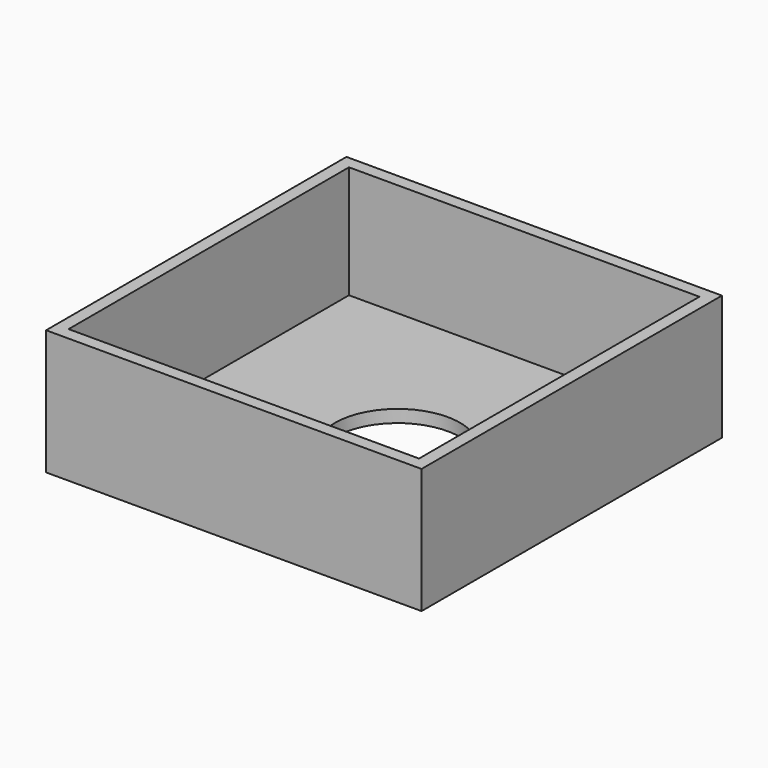
from build123d import *

# Parameters (mm, degrees)
F0_W     = 76.2
F0_H     = 76.2
F1_DEPTH = 25.4
F2_T     = -2.54
F4_D     = 25.4


with BuildPart() as f1:
    # F0 (on Top) → F1 (new body)
    with BuildSketch(Plane.XY):
        Rectangle(F0_W, F0_H)
    extrude(amount=F1_DEPTH)

    # F2
    f2_openings = [f1.faces().sort_by_distance(p)[0] for p in [
        (0, 0, 25.4),
    ]]
    offset(amount=F2_T, openings=f2_openings)

    # F4 (through all)
    with Locations(Plane.XY.offset(2.54)):
        with Locations((2.7593, 0)):
            Hole(F4_D / 2)


with BuildPart() as f5_1:
    # F5: copy of F1
    add(f1.part)


solid = Compound([f1.part, f5_1.part])
